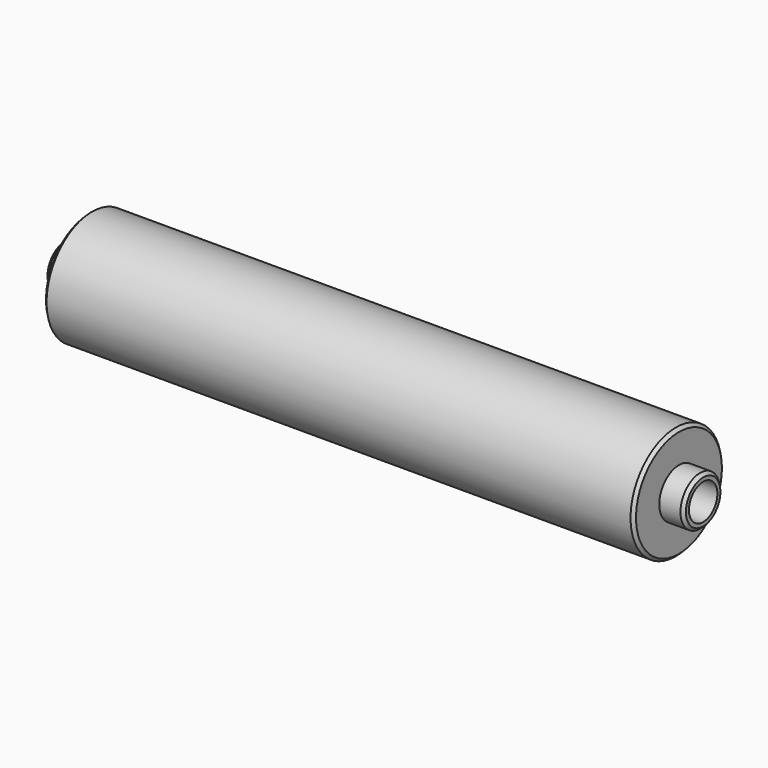
from build123d import *

# Parameters (mm, degrees)
F0_R     = 9.525
F6_DEPTH = 99.06
F7_R     = 4.1275
F1_DEPTH = 4.064
F3_R     = 4.1275
F8_DEPTH = 4.064
F4_R     = 2.9845
F9_DEPTH = 107.189
F5_SIZE  = 0.508


with BuildPart() as f6:
    # F0 (on Right) → F6 (new body)
    with BuildSketch(Plane.YZ):
        with Locations((609.6, 0)):
            Circle(F0_R)
    extrude(amount=F6_DEPTH)

    # F7 (on face) → F1 (join)
    with BuildSketch(Plane.YZ.offset(99.06)):
        with Locations((609.6, 0)):
            Circle(F7_R)
    extrude(amount=F1_DEPTH)

    # F3 (on face) → F8 (join)
    with BuildSketch(Plane(origin=(0, 0, 0), x_dir=(0, -1, 0), z_dir=(-1, 0, 0))):
        with Locations((-609.6, 0)):
            Circle(F3_R)
    extrude(amount=F8_DEPTH)

    # F4 (on face) → F9 (cut, through all)
    with BuildSketch(Plane(origin=(-4.064, 0, 0), x_dir=(0, -1, 0), z_dir=(-1, 0, 0))):
        with Locations((-609.6, 0)):
            Circle(F4_R)
    extrude(amount=-F9_DEPTH, mode=Mode.SUBTRACT)

    # F5
    f5_edges = [f6.edges().sort_by_distance(p)[0] for p in [
        (99.06, 600.075, 0),
        (0, 600.075, 0),
        (-4.064, 613.7275, 0),
        (103.124, 605.4725, 0),
    ]]
    chamfer(f5_edges, length=F5_SIZE)


solid = f6.part
